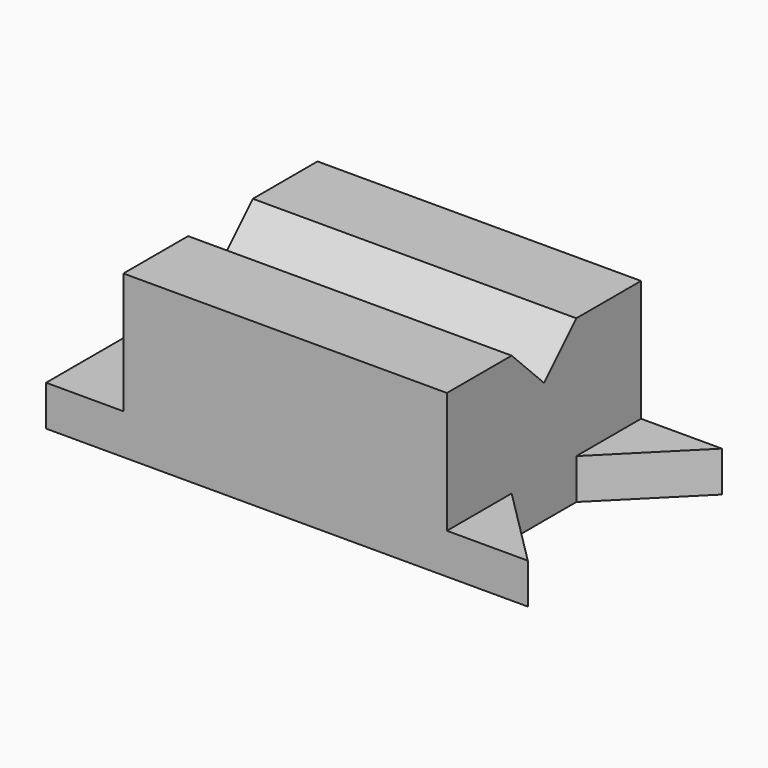
from build123d import *

# Parameters (mm, degrees)
F0_W     = 24.283833
F0_H     = 76.2
F1_DEPTH = 12.7
F2_DEPTH = 50.8
F3_DEPTH = 12.7
F4_DEPTH = 12.7
F6_DEPTH = 125.884833


with BuildPart() as f1:
    # F0 (on Top) → F1 (new body)
    with BuildSketch(Plane.XY):
        with Locations((-57.507079, 7.448686)):
            Rectangle(F0_W, F0_H)
    extrude(amount=F1_DEPTH)

    # F0 (on Top) → F2 (join)
    with BuildSketch(Plane.XY):
        Polygon((56.234837, 45.548686), (-45.365163, 45.548686), (-45.365163, -30.651314), (56.234837, -30.651314), (56.234837, -5.251314), (56.234837, 20.148686), align=None)
    extrude(amount=F2_DEPTH)

    # F0 (on Top) → F3 (join)
    with BuildSketch(Plane.XY):
        Polygon((81.634837, 45.548686), (56.234837, 45.548686), (56.234837, 20.148686), align=None)
    extrude(amount=F3_DEPTH)

    # F0 (on Top) → F4 (join)
    with BuildSketch(Plane.XY):
        Polygon((56.234837, -5.251314), (56.234837, -30.651314), (81.634837, -30.651314), align=None)
    extrude(amount=F4_DEPTH)

    # F5 (on face) → F6 (cut, through all)
    with BuildSketch(Plane.YZ.offset(56.234837)):
        Polygon((20.148686, 50.8), (-5.251314, 50.8), (7.448686, 38.1), align=None)
    extrude(amount=-F6_DEPTH, mode=Mode.SUBTRACT)


solid = f1.part
